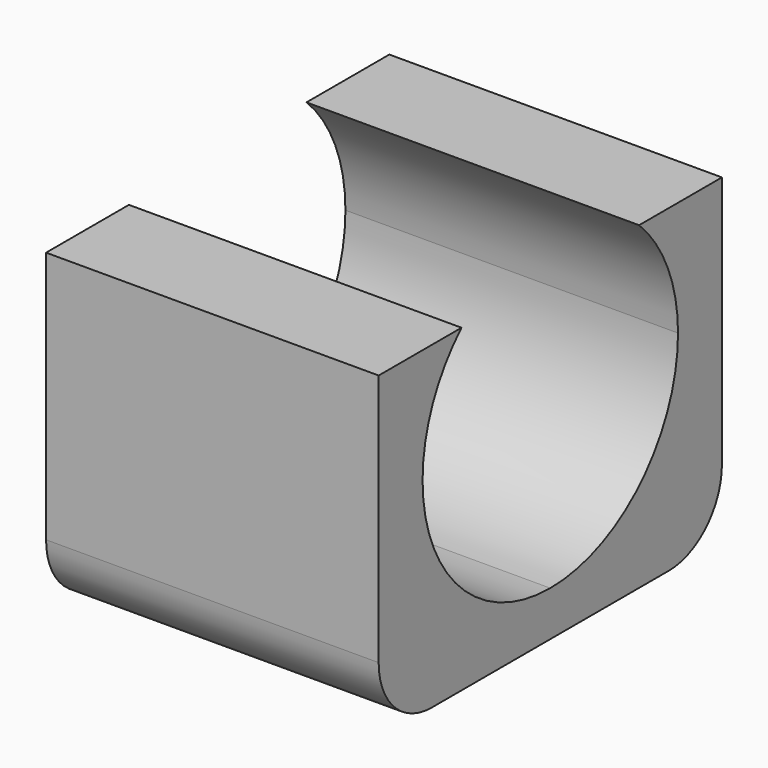
from build123d import *

# Parameters (mm, degrees)
F0_W     = 10
F0_H     = 12.9
F1_DEPTH = 9.6
F3_DEPTH = 10.001
F4_R     = 2


with BuildPart() as f1:
    # F0 (on Top) → F1 (new body)
    with BuildSketch(Plane.XY):
        Rectangle(F0_W, F0_H)
    extrude(amount=F1_DEPTH)

    # F2 (on face) → F3 (cut, through all)
    with BuildSketch(Plane(origin=(-5, 0, 0), x_dir=(0, -1, 0), z_dir=(-1, 0, 0))):
        with BuildLine():
            Line((-4.8, 6.15), (0, 6.15))
            Line((0, 6.15), (4.8, 6.15))
            ThreePointArc((4.8, 6.15), (4.419219, 8.023634), (3.337289, 9.6))
            Line((3.337289, 9.6), (-3.337289, 9.6))
            ThreePointArc((-3.337289, 9.6), (-4.419219, 8.023634), (-4.8, 6.15))
        make_face()
        with BuildLine():
            ThreePointArc((-4.8, 6.15), (-3.394113, 2.755887), (0, 1.35))
            Line((0, 1.35), (0, 6.15))
            Line((0, 6.15), (-4.8, 6.15))
        make_face()
        with BuildLine():
            Line((0, 6.15), (0, 1.35))
            ThreePointArc((0, 1.35), (3.394113, 2.755887), (4.8, 6.15))
            Line((4.8, 6.15), (0, 6.15))
        make_face()
    extrude(amount=-F3_DEPTH, mode=Mode.SUBTRACT)

    # F4
    f4_edges = [f1.edges().sort_by_distance(p)[0] for p in [
        (0, -6.45, 0),
        (0, 6.45, 0),
    ]]
    fillet(f4_edges, radius=F4_R)


solid = f1.part
